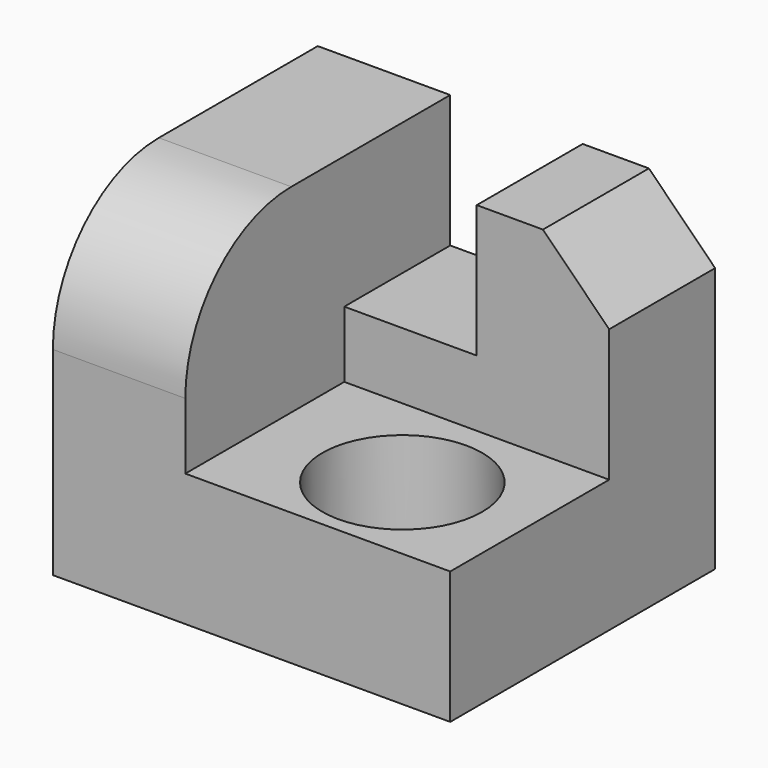
from build123d import *

# Parameters (mm, degrees)
F0_W     = 152.4
F0_H     = 127
F1_DEPTH = 63.5
F2_W     = 101.6
F2_H     = 76.2
F3_DEPTH = 76.2
F4_R     = 50.8
F5_R     = 30.648749
F6_DEPTH = 38.1
F7_W     = 50.8
F7_H     = 50.8
F8_DEPTH = 50.8
F9_SIZE  = 25.4


with BuildPart() as f1:
    # F0 (on Top) → F1 (new body, symmetric)
    with BuildSketch(Plane.XY):
        Rectangle(F0_W, F0_H)
    extrude(amount=F1_DEPTH, both=True)

    # F2 (on face) → F3 (cut)
    with BuildSketch(Plane.XY.offset(63.5)):
        with Locations((25.4, -25.4)):
            Rectangle(F2_W, F2_H)
    extrude(amount=-F3_DEPTH, mode=Mode.SUBTRACT)

    # F4
    f4_edges = [f1.edges().sort_by_distance(p)[0] for p in [
        (-50.8, -63.5, 63.5),
    ]]
    fillet(f4_edges, radius=F4_R)

    # F5 (on face) → F6 (cut)
    with BuildSketch(Plane.XY.offset(-12.7)):
        with Locations((28.892498, -27.33675)):
            Circle(F5_R)
    extrude(amount=-F6_DEPTH, mode=Mode.SUBTRACT)

    # F7 (on face) → F8 (cut)
    with BuildSketch(Plane.XY.offset(63.5)):
        with Locations((0, 38.1)):
            Rectangle(F7_W, F7_H)
    extrude(amount=-F8_DEPTH, mode=Mode.SUBTRACT)

    # F9
    f9_edges = [f1.edges().sort_by_distance(p)[0] for p in [
        (76.2, 38.1, 63.5),
    ]]
    chamfer(f9_edges, length=F9_SIZE)


solid = f1.part
